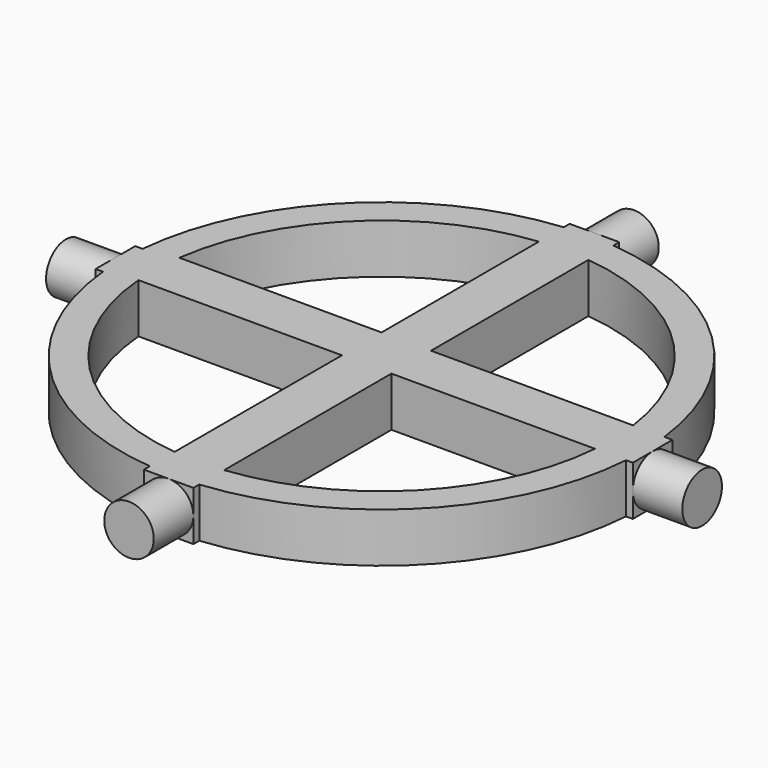
from build123d import *

# Parameters (mm, degrees)
CYLINDER004_R             = 4
CYLINDER004_DEPTH         = 10
CYLINDER004_ROLL_ANGLE    = 90
BOX003_W                  = 8
BOX003_H                  = 3
BOX003_DEPTH              = 8
FUSION003_PLACEMENT_ANGLE = 90
CYLINDER005_R             = 4
CYLINDER005_DEPTH         = 10
CYLINDER005_ROLL_ANGLE    = 90
BOX004_W                  = 8
BOX004_H                  = 3
BOX004_DEPTH              = 8
CYLINDER006_R             = 4
CYLINDER006_DEPTH         = 10
CYLINDER006_ROLL_ANGLE    = 90
BOX005_W                  = 8
BOX005_H                  = 3
BOX005_DEPTH              = 8
FUSION005_PLACEMENT_ANGLE = -90
BOX_W                     = 80
BOX_H                     = 8
BOX_DEPTH                 = 8
BOX_PLACEMENT_ANGLE       = 90
CYLINDER_R                = 42
CYLINDER_DEPTH            = 8
THICKNESS_T               = -5
BOX001_W                  = 80
BOX001_H                  = 8
BOX001_DEPTH              = 8
CYLINDER003_R             = 4
CYLINDER003_DEPTH         = 10
CYLINDER003_ROLL_ANGLE    = 90
BOX002_W                  = 8
BOX002_H                  = 3
BOX002_DEPTH              = 8
FUSION002_PLACEMENT_ANGLE = 180


with BuildPart() as cylinder004:
    # Cylinder004 → Cylinder004 (new body)
    with BuildSketch(Plane.XY):
        Circle(CYLINDER004_R)
    extrude(amount=CYLINDER004_DEPTH)


with BuildPart() as cylinder004_1:
    # Cylinder004 roll: moved
    add(cylinder004.part.rotate(Axis((0, 0, 0), (1, 0, 0)), CYLINDER004_ROLL_ANGLE))


with BuildPart() as cylinder004_2:
    # Cylinder004 placement: moved
    add(cylinder004_1.part.moved(Location((0, -41, 4))))


with BuildPart() as obj1:
    # Box003 → Box003 (new body)
    with BuildSketch(Plane(origin=(-4, -43, 0), x_dir=(1, 0, 0), z_dir=(0, 0, 1))):
        with Locations((4, 1.5)):
            Rectangle(BOX003_W, BOX003_H)
    extrude(amount=BOX003_DEPTH)

    # Fusion003: union Cylinder004
    add(cylinder004_2.part)


with BuildPart() as obj1_1:
    # Fusion003 placement: moved
    add(obj1.part.moved(Location((0, 1, 0))).rotate(Axis((0, 1, 0), (0, 0, 1)), FUSION003_PLACEMENT_ANGLE))


with BuildPart() as cylinder005:
    # Cylinder005 → Cylinder005 (new body)
    with BuildSketch(Plane.XY):
        Circle(CYLINDER005_R)
    extrude(amount=CYLINDER005_DEPTH)


with BuildPart() as cylinder005_1:
    # Cylinder005 roll: moved
    add(cylinder005.part.rotate(Axis((0, 0, 0), (1, 0, 0)), CYLINDER005_ROLL_ANGLE))


with BuildPart() as cylinder005_2:
    # Cylinder005 placement: moved
    add(cylinder005_1.part.moved(Location((0, -41, 4))))


with BuildPart() as obj2:
    # Box004 → Box004 (new body)
    with BuildSketch(Plane(origin=(-4, -43, 0), x_dir=(1, 0, 0), z_dir=(0, 0, 1))):
        with Locations((4, 1.5)):
            Rectangle(BOX004_W, BOX004_H)
    extrude(amount=BOX004_DEPTH)

    # Fusion004: union Cylinder005
    add(cylinder005_2.part)


with BuildPart() as cylinder006:
    # Cylinder006 → Cylinder006 (new body)
    with BuildSketch(Plane.XY):
        Circle(CYLINDER006_R)
    extrude(amount=CYLINDER006_DEPTH)


with BuildPart() as cylinder006_1:
    # Cylinder006 roll: moved
    add(cylinder006.part.rotate(Axis((0, 0, 0), (1, 0, 0)), CYLINDER006_ROLL_ANGLE))


with BuildPart() as cylinder006_2:
    # Cylinder006 placement: moved
    add(cylinder006_1.part.moved(Location((0, -41, 4))))


with BuildPart() as obj3:
    # Box005 → Box005 (new body)
    with BuildSketch(Plane(origin=(-4, -43, 0), x_dir=(1, 0, 0), z_dir=(0, 0, 1))):
        with Locations((4, 1.5)):
            Rectangle(BOX005_W, BOX005_H)
    extrude(amount=BOX005_DEPTH)

    # Fusion005: union Cylinder006
    add(cylinder006_2.part)


with BuildPart() as obj3_1:
    # Fusion005 placement: moved
    add(obj3.part.rotate(Axis((0, 0, 0), (0, 0, 1)), FUSION005_PLACEMENT_ANGLE))


with BuildPart() as cube:
    # Box → Box (new body)
    with BuildSketch(Plane.XY):
        with Locations((40, 4)):
            Rectangle(BOX_W, BOX_H)
    extrude(amount=BOX_DEPTH)


with BuildPart() as cube_1:
    # Box placement: moved
    add(cube.part.moved(Location((4, -40, 0))).rotate(Axis((4, -40, 0), (0, 0, 1)), BOX_PLACEMENT_ANGLE))


with BuildPart() as thickness:
    # Cylinder → Cylinder (new body)
    with BuildSketch(Plane.XY):
        Circle(CYLINDER_R)
    extrude(amount=CYLINDER_DEPTH)

    # Thickness
    thickness_openings = [thickness.faces().sort_by_distance(p)[0] for p in [
        (0, 0, 0),
        (0, 0, 8),
    ]]
    offset(amount=THICKNESS_T, openings=thickness_openings)


with BuildPart() as obj4:
    # Box001 → Box001 (new body)
    with BuildSketch(Plane(origin=(-40, -3, 0), x_dir=(1, 0, 0), z_dir=(0, 0, 1))):
        with Locations((40, 4)):
            Rectangle(BOX001_W, BOX001_H)
    extrude(amount=BOX001_DEPTH)

    # Fusion: union Cube, Thickness
    add(cube_1.part)
    add(thickness.part)


with BuildPart() as cylinder003:
    # Cylinder003 → Cylinder003 (new body)
    with BuildSketch(Plane.XY):
        Circle(CYLINDER003_R)
    extrude(amount=CYLINDER003_DEPTH)


with BuildPart() as cylinder003_1:
    # Cylinder003 roll: moved
    add(cylinder003.part.rotate(Axis((0, 0, 0), (1, 0, 0)), CYLINDER003_ROLL_ANGLE))


with BuildPart() as cylinder003_2:
    # Cylinder003 placement: moved
    add(cylinder003_1.part.moved(Location((0, -41, 4))))


with BuildPart() as fusion006:
    # Box002 → Box002 (new body)
    with BuildSketch(Plane(origin=(-4, -43, 0), x_dir=(1, 0, 0), z_dir=(0, 0, 1))):
        with Locations((4, 1.5)):
            Rectangle(BOX002_W, BOX002_H)
    extrude(amount=BOX002_DEPTH)

    # Fusion002: union Cylinder003
    add(cylinder003_2.part)


with BuildPart() as fusion006_1:
    # Fusion002 placement: moved
    add(fusion006.part.rotate(Axis((0, 0, 0), (0, 0, 1)), FUSION002_PLACEMENT_ANGLE))

    # Fusion006: union obj1, obj2, obj3, obj4
    add(obj1_1.part)
    add(obj2.part)
    add(obj3_1.part)
    add(obj4.part)


solid = fusion006_1.part
